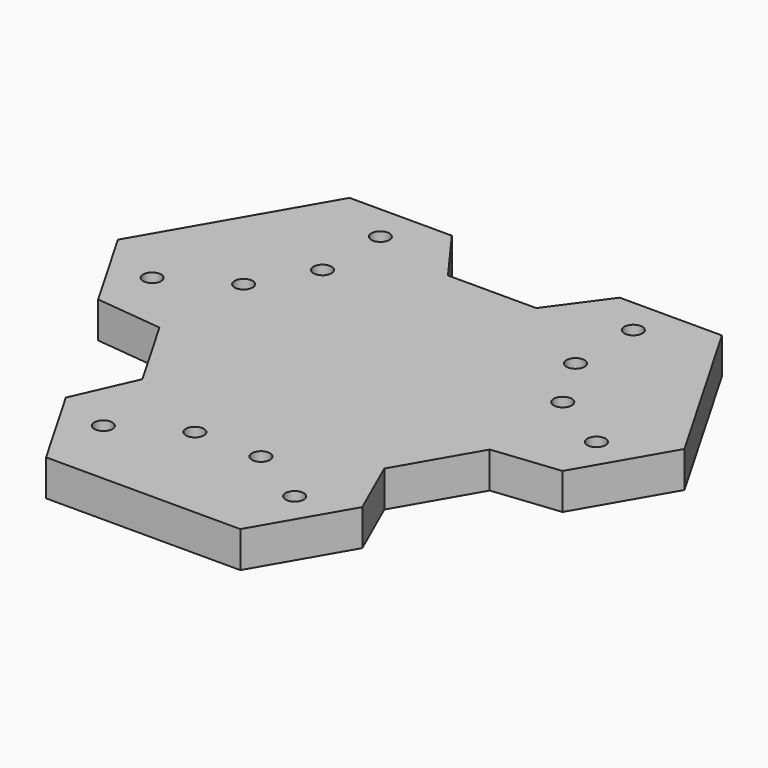
from build123d import *

# Parameters (mm, degrees)
PAD007_DEPTH       = 10
SKETCH012_R        = 2.5
POCKET003_DEPTH    = 425.270426
POLARPATTERN_COUNT = 3


with BuildPart() as part:
    # Sketch011 → Pad007 (new body)
    with BuildSketch(Plane.XY):
        Polygon((-51.516335, 60.77109), (51.516335, 60.77109), (78.387475, 14.22891), (26.87114, -75), (-26.87114, -75), (-78.387475, 14.22891), align=None)
    extrude(amount=PAD007_DEPTH)

    # Sketch012 → Pocket003 (cut, through all)
    with BuildSketch(Plane.XY):
        with Locations((-35, 50.77109)):
            Circle(SKETCH012_R)
        with Locations((35, 50.77109)):
            Circle(SKETCH012_R)
        with Locations((-35, 30.77109)):
            Circle(SKETCH012_R)
        with Locations((35, 30.77109)):
            Circle(SKETCH012_R)
        Polygon((23.226799, 60.77109), (12.228239, 45.7), (-12.228239, 45.7), (-23.226799, 60.77109), align=None)
    pocket003 = extrude(amount=POCKET003_DEPTH, mode=Mode.SUBTRACT)

    # PolarPattern: Pocket003 ×3 about axis
    polarpattern_axis = Axis((0, 0, 0), (0, 0, 1))
    for i in range(1, POLARPATTERN_COUNT):
        add(pocket003.rotate(polarpattern_axis, i * 360 / POLARPATTERN_COUNT), mode=Mode.SUBTRACT)


solid = part.part
